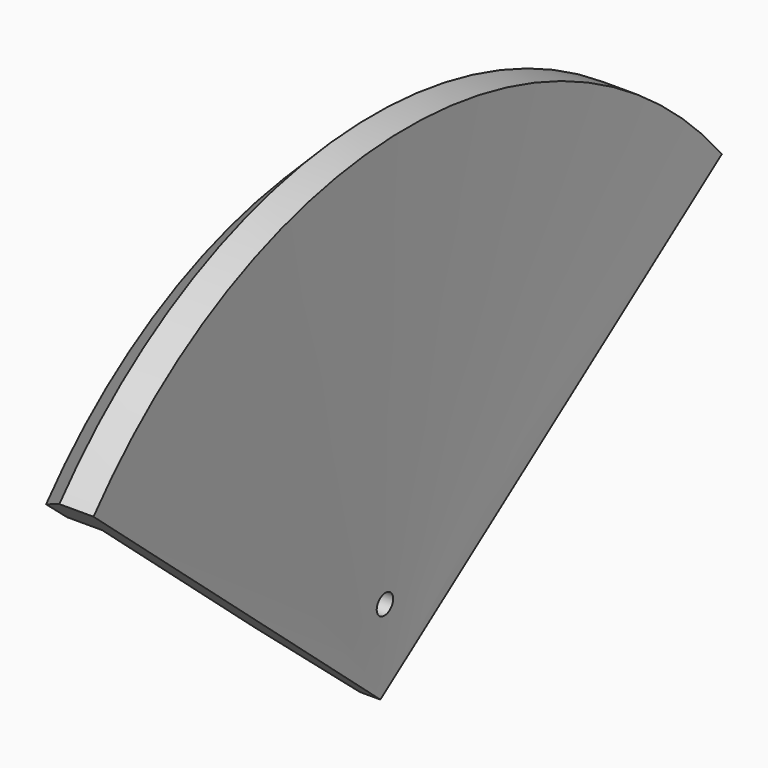
from build123d import *

# Parameters (mm, degrees)
F1_ANGLE_BACK = 50
F1_ANGLE      = 100
F2_SIZE       = 5
F3_R          = 1.5
F4_DEPTH      = 3.7476667667


with BuildPart() as f1:
    # F0 (on Front) → F1 (revolve)
    with BuildSketch(Plane.XZ, mode=Mode.PRIVATE) as f1_sk:
        Polygon((3, 0), (7, 75), (-3, 75), (-3, 65), (2.1333333333, 65), (0, 25), (0, 0), align=None)
    revolve(f1_sk.sketch.rotate(Axis((1.5, 0, 0), (-1, 0, 0)), -F1_ANGLE_BACK), axis=Axis((1.5, 0, 0), (-1, 0, 0)), revolution_arc=F1_ANGLE)

    # F2
    f2_edges = [f1.edges().sort_by_distance(p)[0] for p in [
        (-3, 0, 75),
    ]]
    chamfer(f2_edges, length=F2_SIZE)

    # F3 (on Right) → F4 (cut, through all)
    with BuildSketch(Plane.YZ):
        with Locations((0, 12.5)):
            Circle(F3_R)
    extrude(amount=F4_DEPTH, mode=Mode.SUBTRACT)


solid = f1.part
